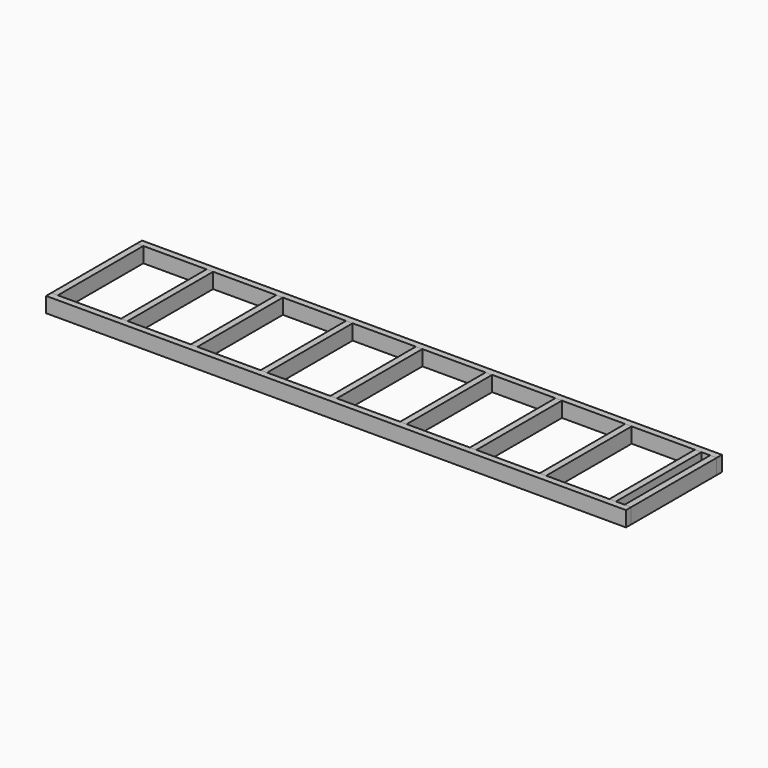
from build123d import *

# Parameters (mm, degrees)
F1_DEPTH = 88.9
F2_DEPTH = 88.9
F0_W     = 38.1
F0_H     = 622.3
F3_DEPTH = 88.9


with BuildPart() as f1:
    # F0 (on Top) → F1 (new body)
    with BuildSketch(Plane.XY):
        Polygon((0, 698.5), (0, 660.4), (38.1, 660.4), (3340.1, 660.4), (3378.2, 660.4), (3378.2, 698.5), align=None)
    extrude(amount=F1_DEPTH)


with BuildPart() as f2:
    # F0 (on Top) → F2 (new body)
    with BuildSketch(Plane.XY):
        Polygon((0, 38.1), (0, 0), (3378.2, 0), (3378.2, 38.1), (3340.1, 38.1), (38.1, 38.1), align=None)
    extrude(amount=F2_DEPTH)


with BuildPart() as f3:
    # F0 (on Top) → F3 (new body)
    with BuildSketch(Plane.XY):
        with Locations((19.05, 349.25)):
            Rectangle(F0_W, F0_H)
    extrude(amount=F3_DEPTH)


with BuildPart() as f4_1:
    # F4: copy of F3
    add(f3.part.moved(Location((406.4, 0, 0))))


with BuildPart() as f5_1:
    # F5: copy of F4_1
    add(f4_1.part.moved(Location((406.4, 0, 0))))


with BuildPart() as f6_1:
    # F6: copy of F5_1
    add(f5_1.part.moved(Location((406.4, 0, 0))))


with BuildPart() as f7_1:
    # F7: copy of F6_1
    add(f6_1.part.moved(Location((406.4, 0, 0))))


with BuildPart() as f8_1:
    # F8: copy of F7_1
    add(f7_1.part.moved(Location((406.4, 0, 0))))


with BuildPart() as f9_1:
    # F9: copy of F8_1
    add(f8_1.part.moved(Location((406.4, 0, 0))))


with BuildPart() as f10_1:
    # F10: copy of F9_1
    add(f9_1.part.moved(Location((406.4, 0, 0))))


with BuildPart() as f11_1:
    # F11: copy of F10_1
    add(f10_1.part.moved(Location((406.4, 0, 0))))


with BuildPart() as f12_1:
    # F12: copy of F3
    add(f3.part.moved(Location((3340.1, 0, 0))))


solid = Compound([f1.part, f2.part, f3.part, f4_1.part, f5_1.part, f6_1.part, f7_1.part, f8_1.part, f9_1.part, f10_1.part, f11_1.part, f12_1.part])
